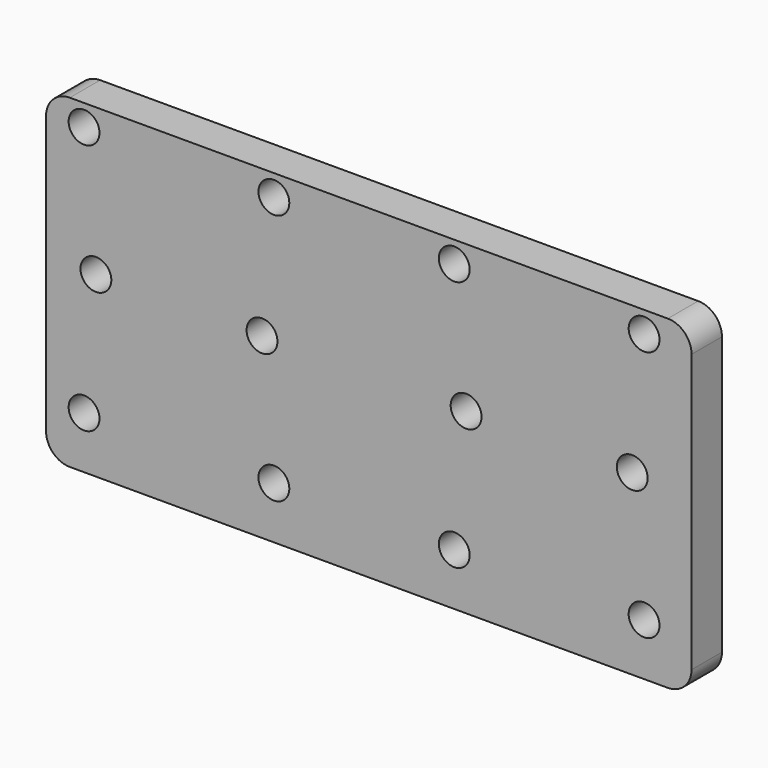
from build123d import *

# Parameters (mm, degrees)
F0_R     = 3.25
F1_DEPTH = 8


with BuildPart() as f1:
    # F0 (on Front) → F1 (new body)
    with BuildSketch(Plane.XZ):
        with BuildLine():
            Line((-51, -81.84203), (75, -81.84203))
            ThreePointArc((75, -81.84203), (78.535534, -80.377564), (80, -76.84203))
            Line((80, -76.84203), (80, -18.34203))
            ThreePointArc((80, -18.34203), (78.535534, -14.806496), (75, -13.34203))
            Line((75, -13.34203), (-51, -13.34203))
            ThreePointArc((-51, -13.34203), (-54.535534, -14.806496), (-56, -18.34203))
            Line((-56, -18.34203), (-56, -76.84203))
            ThreePointArc((-56, -76.84203), (-54.535534, -80.377564), (-51, -81.84203))
        make_face()
        with Locations((-48, -70.84203)):
            Circle(F0_R, mode=Mode.SUBTRACT)
        with Locations((-8, -70.84203)):
            Circle(F0_R, mode=Mode.SUBTRACT)
        with Locations((30, -70.84203)):
            Circle(F0_R, mode=Mode.SUBTRACT)
        with Locations((70, -70.84203)):
            Circle(F0_R, mode=Mode.SUBTRACT)
        with Locations((-45.5, -44.34203)):
            Circle(F0_R, mode=Mode.SUBTRACT)
        with Locations((-10.5, -44.34203)):
            Circle(F0_R, mode=Mode.SUBTRACT)
        with Locations((-48, -17.84203)):
            Circle(F0_R, mode=Mode.SUBTRACT)
        with Locations((-8, -17.84203)):
            Circle(F0_R, mode=Mode.SUBTRACT)
        with Locations((32.5, -44.34203)):
            Circle(F0_R, mode=Mode.SUBTRACT)
        with Locations((67.5, -44.34203)):
            Circle(F0_R, mode=Mode.SUBTRACT)
        with Locations((30, -17.84203)):
            Circle(F0_R, mode=Mode.SUBTRACT)
        with Locations((70, -17.84203)):
            Circle(F0_R, mode=Mode.SUBTRACT)
    extrude(amount=F1_DEPTH)


solid = f1.part
